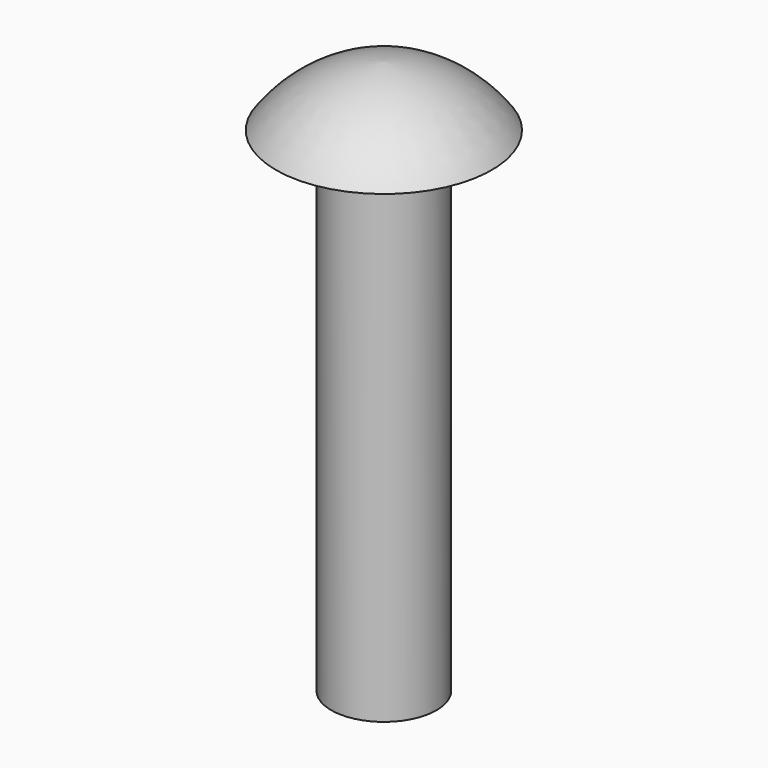
from build123d import *

# Parameters (mm, degrees)
F0_R     = 1.016
F1_DEPTH = 9.525


with BuildPart() as f1:
    # F0 (on Top) → F1 (new body)
    with BuildSketch(Plane.XY):
        Circle(F0_R)
    extrude(amount=-F1_DEPTH)

    # F2 (on Front) → F3 (revolve)
    with BuildSketch(Plane.XZ):
        with BuildLine():
            Line((-2.0828, 0), (0, 0))
            Line((0, 0), (0, 1.1684))
            ThreePointArc((0, 1.1684), (-1.172995, 0.818782), (-2.0828, 0))
        make_face()
    revolve(axis=Axis((0, 0, 0.5842), (0, 0, 1)))


solid = f1.part
